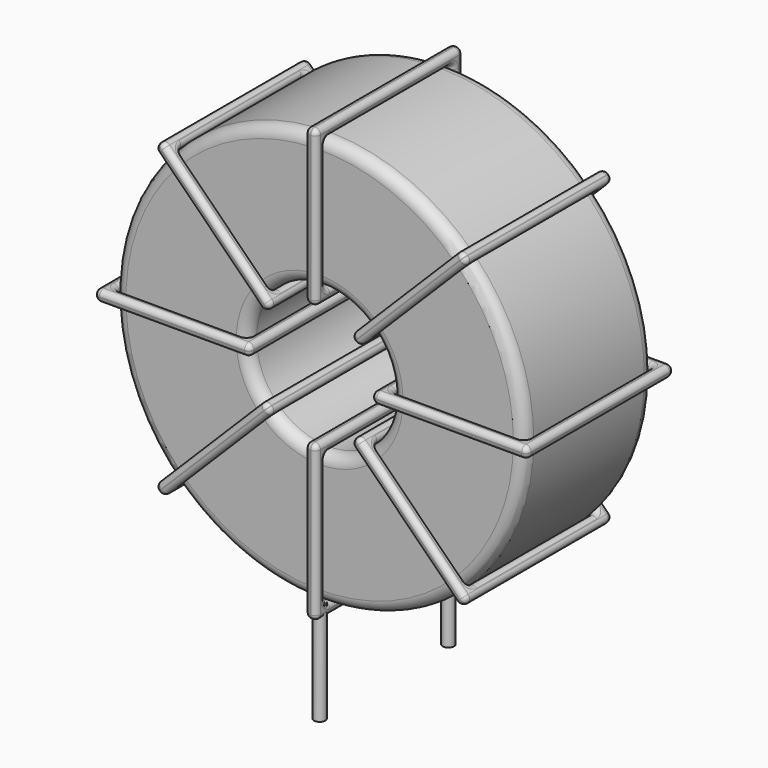
from build123d import *

# Parameters (mm, degrees)
SKETCH001_R       = 0.25
PAD001_DEPTH      = 0.5
PAD001_DEPTH_BACK = 4
SKETCH_R          = 9.05
SKETCH_R_2        = 3.183333
PAD_DEPTH         = 3.55
FILLET_R          = 0.5
SKETCH003_W       = 6.866667
SKETCH003_H       = 8.1
SKETCH003_W_2     = 5.866667
SKETCH003_H_2     = 7.1
PAD002_DEPTH      = 0.25
FILLET001_R       = 0.235
SKETCH004_W       = 6.866667
SKETCH004_H       = 8.1
SKETCH004_W_2     = 5.866667
SKETCH004_H_2     = 7.1
PAD003_DEPTH      = 0.25
FILLET002_R       = 0.235
SKETCH005_W       = 6.866667
SKETCH005_H       = 8.1
SKETCH005_W_2     = 5.866667
SKETCH005_H_2     = 7.1
PAD004_DEPTH      = 0.25
FILLET003_R       = 0.235
SKETCH006_W       = 6.866667
SKETCH006_H       = 8.1
SKETCH006_W_2     = 5.866667
SKETCH006_H_2     = 7.1
PAD005_DEPTH      = 0.25
FILLET004_R       = 0.235


with BuildPart() as pad001:
    # Sketch001 → Pad001 (new body, two sides)
    with BuildSketch(Plane.XY.offset(1)) as pad001_sk:
        Circle(SKETCH001_R)
        with Locations((0, -7.1)):
            Circle(SKETCH001_R)
    extrude(amount=PAD001_DEPTH)
    extrude(pad001_sk.sketch, amount=-PAD001_DEPTH_BACK)


with BuildPart() as fillet_body:
    # Sketch → Pad (new body, symmetric)
    with BuildSketch(Plane.XZ.offset(3.55)):
        with Locations((0, 10.55)):
            Circle(SKETCH_R)
        with Locations((0, 10.55)):
            Circle(SKETCH_R_2, mode=Mode.SUBTRACT)
    extrude(amount=PAD_DEPTH, both=True)

    # Fillet
    fillet_edges = [fillet_body.edges().sort_by_distance(p)[0] for p in [
        (-3.183333, -7.1, 10.55),
        (-9.05, -7.1, 10.55),
        (-9.05, 0, 10.55),
    ]]
    fillet(fillet_edges, radius=FILLET_R)


with BuildPart() as fillet001:
    # Sketch003 → Pad002 (new body, symmetric)
    with BuildSketch(Plane(origin=(0, 0.5, 10.55), x_dir=(1, 0, 0), z_dir=(0, 0, -1))):
        with Locations((-6.116666, 4.05)):
            Rectangle(SKETCH003_W, SKETCH003_H)
        with Locations((-6.116666, 4.05)):
            Rectangle(SKETCH003_W_2, SKETCH003_H_2, mode=Mode.SUBTRACT)
        with Locations((6.116666, 4.05)):
            Rectangle(SKETCH003_W, SKETCH003_H)
        with Locations((6.116666, 4.05)):
            Rectangle(SKETCH003_W_2, SKETCH003_H_2, mode=Mode.SUBTRACT)
    extrude(amount=PAD002_DEPTH, both=True)

    # Fillet001
    fillet001_edges = [fillet001.edges().sort_by_distance(p)[0] for p in [
        (9.05, -7.1, 10.55),
        (9.05, 0, 10.55),
        (9.05, -3.55, 10.8),
        (9.05, -3.55, 10.3),
        (9.55, 0.5, 10.55),
        (2.683333, 0.5, 10.55),
        (6.116667, 0.5, 10.8),
        (6.116667, 0.5, 10.3),
        (2.683333, -7.6, 10.55),
        (2.683333, -3.55, 10.8),
        (2.683333, -3.55, 10.3),
        (-9.05, -7.1, 10.55),
        (-3.183333, -7.1, 10.55),
        (-6.116667, -7.1, 10.8),
        (-6.116667, -7.1, 10.3),
        (-3.183333, 0, 10.55),
        (-3.183333, -3.55, 10.8),
        (-3.183333, -3.55, 10.3),
        (-2.683333, 0.5, 10.55),
        (-9.55, 0.5, 10.55),
        (-6.116667, 0.5, 10.8),
        (-6.116667, 0.5, 10.3),
        (-9.55, -7.6, 10.55),
        (-9.55, -3.55, 10.8),
        (-9.55, -3.55, 10.3),
        (3.183333, -7.1, 10.55),
        (6.116667, -7.1, 10.8),
        (6.116667, -7.1, 10.3),
        (-9.05, 0, 10.55),
        (-9.05, -3.55, 10.8),
        (-9.05, -3.55, 10.3),
        (-6.116667, 0, 10.8),
        (-6.116667, 0, 10.3),
        (-2.683333, -7.6, 10.55),
        (-6.116667, -7.6, 10.8),
        (-6.116667, -7.6, 10.3),
        (-2.683333, -3.55, 10.8),
        (-2.683333, -3.55, 10.3),
        (9.55, -7.6, 10.55),
        (6.116667, -7.6, 10.8),
        (6.116667, -7.6, 10.3),
        (9.55, -3.55, 10.8),
        (9.55, -3.55, 10.3),
        (3.183333, 0, 10.55),
        (3.183333, -3.55, 10.8),
        (3.183333, -3.55, 10.3),
        (6.116667, 0, 10.8),
        (6.116667, 0, 10.3),
    ]]
    fillet(fillet001_edges, radius=FILLET001_R)


with BuildPart() as fillet002:
    # Sketch004 → Pad003 (new body, symmetric)
    with BuildSketch(Plane(origin=(0, 0.5, 10.55), x_dir=(0.707108, 0, 0.707106), z_dir=(0.707106, 0, -0.707108))):
        with Locations((-6.116666, 4.05)):
            Rectangle(SKETCH004_W, SKETCH004_H)
        with Locations((-6.116666, 4.05)):
            Rectangle(SKETCH004_W_2, SKETCH004_H_2, mode=Mode.SUBTRACT)
        with Locations((6.116666, 4.05)):
            Rectangle(SKETCH004_W, SKETCH004_H)
        with Locations((6.116666, 4.05)):
            Rectangle(SKETCH004_W_2, SKETCH004_H_2, mode=Mode.SUBTRACT)
    extrude(amount=PAD003_DEPTH, both=True)

    # Fillet002
    fillet002_edges = [fillet002.edges().sort_by_distance(p)[0] for p in [
        (-2.250959, -7.1, 8.299046),
        (-2.250959, 0, 8.299046),
        (-2.427736, -3.55, 8.475823),
        (-2.074183, -3.55, 8.122269),
        (-6.752878, -7.6, 3.797138),
        (-1.897405, -7.6, 8.652599),
        (-4.501918, -7.6, 6.401645),
        (-4.148365, -7.6, 6.048092),
        (-1.897405, 0.5, 8.652599),
        (-2.074182, -3.55, 8.829376),
        (-1.720629, -3.55, 8.475822),
        (2.250959, 0, 12.800954),
        (2.250959, -7.1, 12.800954),
        (2.074183, -3.55, 12.977731),
        (2.427736, -3.55, 12.624177),
        (6.399324, 0, 16.949309),
        (4.148365, 0, 15.051908),
        (4.501918, 0, 14.698355),
        (1.897405, -7.6, 12.447401),
        (6.752878, -7.6, 17.302862),
        (4.148365, -7.6, 15.051908),
        (4.501918, -7.6, 14.698355),
        (6.752878, 0.5, 17.302862),
        (6.576101, -3.55, 17.479639),
        (6.929654, -3.55, 17.126085),
        (-6.399324, -7.1, 4.150691),
        (-4.501918, -7.1, 6.401645),
        (-4.148365, -7.1, 6.048092),
        (6.399324, -7.1, 16.949309),
        (4.148365, -7.1, 15.051908),
        (4.501918, -7.1, 14.698355),
        (6.222547, -3.55, 17.126086),
        (6.5761, -3.55, 16.772532),
        (1.897405, 0.5, 12.447401),
        (4.148365, 0.5, 15.051908),
        (4.501918, 0.5, 14.698355),
        (1.720629, -3.55, 12.624178),
        (2.074182, -3.55, 12.270624),
        (-6.752878, 0.5, 3.797138),
        (-4.501918, 0.5, 6.401645),
        (-4.148365, 0.5, 6.048092),
        (-6.929654, -3.55, 3.973915),
        (-6.576101, -3.55, 3.620361),
        (-6.399324, 0, 4.150691),
        (-6.5761, -3.55, 4.327468),
        (-6.222547, -3.55, 3.973914),
        (-4.501918, 0, 6.401645),
        (-4.148365, 0, 6.048092),
    ]]
    fillet(fillet002_edges, radius=FILLET002_R)


with BuildPart() as fillet003:
    # Sketch005 → Pad004 (new body, symmetric)
    with BuildSketch(Plane(origin=(0, 0.5, 10.55), x_dir=(0.707108, 0, -0.707106), z_dir=(-0.707106, 0, -0.707108))):
        with Locations((-6.116666, 4.05)):
            Rectangle(SKETCH005_W, SKETCH005_H)
        with Locations((-6.116666, 4.05)):
            Rectangle(SKETCH005_W_2, SKETCH005_H_2, mode=Mode.SUBTRACT)
        with Locations((6.116666, 4.05)):
            Rectangle(SKETCH005_W, SKETCH005_H)
        with Locations((6.116666, 4.05)):
            Rectangle(SKETCH005_W_2, SKETCH005_H_2, mode=Mode.SUBTRACT)
    extrude(amount=PAD004_DEPTH, both=True)

    # Fillet003
    fillet003_edges = [fillet003.edges().sort_by_distance(p)[0] for p in [
        (-6.399324, -7.1, 16.949309),
        (-2.250959, 0, 12.800954),
        (-4.148365, 0, 15.051908),
        (-4.501918, 0, 14.698355),
        (-6.752878, -7.6, 17.302862),
        (-6.752878, 0.5, 17.302862),
        (-6.576101, -3.55, 17.479639),
        (-6.929654, -3.55, 17.126085),
        (-1.897405, -7.6, 12.447401),
        (-4.148365, 0.5, 15.051908),
        (-4.501918, 0.5, 14.698355),
        (2.250959, 0, 8.299046),
        (2.250959, -7.1, 8.299046),
        (2.427736, -3.55, 8.475823),
        (2.074183, -3.55, 8.122269),
        (6.399324, 0, 4.150691),
        (4.501918, 0, 6.401645),
        (4.148365, 0, 6.048092),
        (1.897405, -7.6, 8.652599),
        (6.752878, -7.6, 3.797138),
        (4.501918, -7.6, 6.401645),
        (4.148365, -7.6, 6.048092),
        (6.752878, 0.5, 3.797138),
        (6.929654, -3.55, 3.973915),
        (6.576101, -3.55, 3.620361),
        (-6.399324, 0, 16.949309),
        (-6.222547, -3.55, 17.126086),
        (-6.5761, -3.55, 16.772532),
        (6.399324, -7.1, 4.150691),
        (4.501918, -7.1, 6.401645),
        (4.148365, -7.1, 6.048092),
        (6.5761, -3.55, 4.327468),
        (6.222547, -3.55, 3.973914),
        (1.897405, 0.5, 8.652599),
        (4.501918, 0.5, 6.401645),
        (4.148365, 0.5, 6.048092),
        (2.074182, -3.55, 8.829376),
        (1.720629, -3.55, 8.475822),
        (-1.897405, 0.5, 12.447401),
        (-1.720629, -3.55, 12.624178),
        (-2.074182, -3.55, 12.270624),
        (-4.148365, -7.6, 15.051908),
        (-4.501918, -7.6, 14.698355),
        (-2.250959, -7.1, 12.800954),
        (-4.148365, -7.1, 15.051908),
        (-4.501918, -7.1, 14.698355),
        (-2.074183, -3.55, 12.977731),
        (-2.427736, -3.55, 12.624177),
    ]]
    fillet(fillet003_edges, radius=FILLET003_R)


with BuildPart() as fillet004:
    # Sketch006 → Pad005 (new body, symmetric)
    with BuildSketch(Plane(origin=(0, 0.5, 10.55), x_dir=(0, 0, 1), z_dir=(1, 0, 0))):
        with Locations((-6.116666, 4.05)):
            Rectangle(SKETCH006_W, SKETCH006_H)
        with Locations((-6.116666, 4.05)):
            Rectangle(SKETCH006_W_2, SKETCH006_H_2, mode=Mode.SUBTRACT)
        with Locations((6.116666, 4.05)):
            Rectangle(SKETCH006_W, SKETCH006_H)
        with Locations((6.116666, 4.05)):
            Rectangle(SKETCH006_W_2, SKETCH006_H_2, mode=Mode.SUBTRACT)
    extrude(amount=PAD005_DEPTH, both=True)

    # Fillet004
    fillet004_edges = [fillet004.edges().sort_by_distance(p)[0] for p in [
        (0, -7.1, 7.366667),
        (0, 0, 7.366667),
        (-0.25, -3.55, 7.366667),
        (0.25, -3.55, 7.366667),
        (0, -7.6, 1),
        (0, -7.6, 7.866667),
        (-0.25, -7.6, 4.433333),
        (0.25, -7.6, 4.433333),
        (0, 0.5, 7.866667),
        (-0.25, -3.55, 7.866667),
        (0.25, -3.55, 7.866667),
        (0, -7.1, 13.733333),
        (0, -7.1, 19.6),
        (-0.25, -7.1, 16.666667),
        (0.25, -7.1, 16.666667),
        (0, 0, 19.6),
        (-0.25, -3.55, 19.6),
        (0.25, -3.55, 19.6),
        (0, -7.6, 13.233333),
        (0, -7.6, 20.1),
        (-0.25, -7.6, 16.666667),
        (0.25, -7.6, 16.666667),
        (0, 0.5, 20.1),
        (-0.25, -3.55, 20.1),
        (0.25, -3.55, 20.1),
        (0, -7.1, 1.5),
        (-0.25, -7.1, 4.433333),
        (0.25, -7.1, 4.433333),
        (0, 0, 13.733333),
        (-0.25, -3.55, 13.733333),
        (0.25, -3.55, 13.733333),
        (-0.25, 0, 16.666667),
        (0.25, 0, 16.666667),
        (0, 0.5, 13.233333),
        (-0.25, 0.5, 16.666667),
        (0.25, 0.5, 16.666667),
        (-0.25, -3.55, 13.233333),
        (0.25, -3.55, 13.233333),
        (0, 0.5, 1),
        (-0.25, 0.5, 4.433333),
        (0.25, 0.5, 4.433333),
        (-0.25, -3.55, 1),
        (0.25, -3.55, 1),
        (0, 0, 1.5),
        (-0.25, -3.55, 1.5),
        (0.25, -3.55, 1.5),
        (-0.25, 0, 4.433333),
        (0.25, 0, 4.433333),
    ]]
    fillet(fillet004_edges, radius=FILLET004_R)


solid = Compound([pad001.part, fillet_body.part, fillet001.part, fillet002.part, fillet003.part, fillet004.part])
